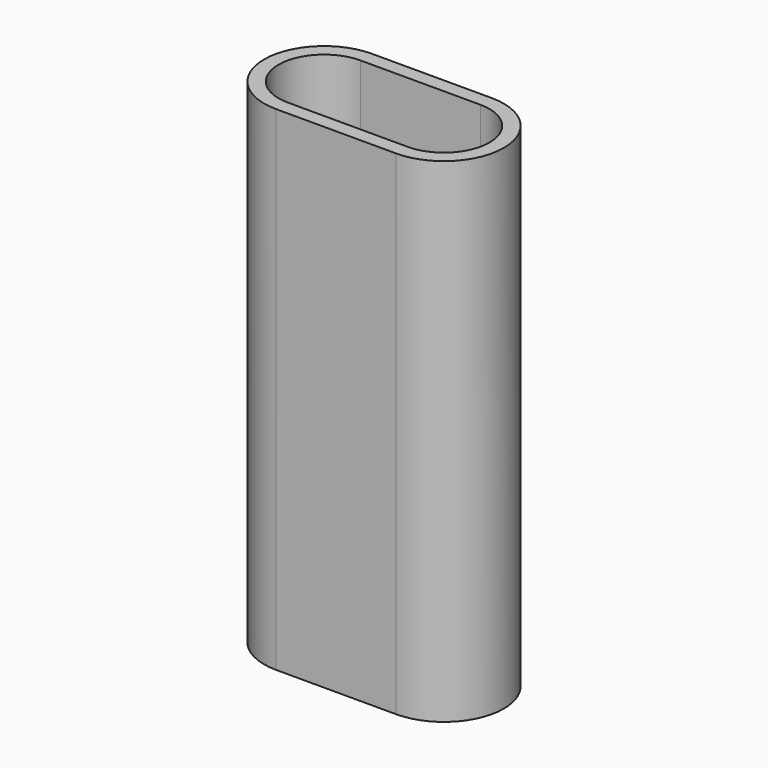
from build123d import *

# Parameters (mm, degrees)
F0_W     = 6.35
F0_H     = 1.5875
F0_H_2   = 9.525
F1_DEPTH = 52.324
F3_DEPTH = 49.276


with BuildPart() as f1:
    # F0 (on Top) → F1 (new body)
    with BuildSketch(Plane.XY):
        with Locations((3.175, -0.79375)):
            Rectangle(F0_W, F0_H)
        with BuildLine():
            Line((0, -1.5875), (0, 0))
            ThreePointArc((0, 0), (-6.35, -6.35), (0, -12.7))
            Line((0, -12.7), (0, -11.1125))
            ThreePointArc((0, -11.1125), (-4.7625, -6.35), (0, -1.5875))
        make_face()
        with Locations((9.525, -0.79375)):
            Rectangle(F0_W, F0_H)
        with Locations((3.175, -11.90625)):
            Rectangle(F0_W, F0_H)
        with BuildLine():
            ThreePointArc((12.7, -12.7), (19.05, -6.35), (12.7, 0))
            Line((12.7, 0), (12.7, -1.5875))
            ThreePointArc((12.7, -1.5875), (17.4625, -6.35), (12.7, -11.1125))
            Line((12.7, -11.1125), (12.7, -12.7))
        make_face()
        with Locations((9.525, -11.90625)):
            Rectangle(F0_W, F0_H)
        with Locations((9.525, -6.35)):
            Rectangle(F0_W, F0_H_2)
        with Locations((3.175, -6.35)):
            Rectangle(F0_W, F0_H_2)
        with BuildLine():
            Line((0, -11.1125), (0, -1.5875))
            ThreePointArc((0, -1.5875), (-4.7625, -6.35), (0, -11.1125))
        make_face()
        with BuildLine():
            ThreePointArc((12.7, -11.1125), (17.4625, -6.35), (12.7, -1.5875))
            Line((12.7, -1.5875), (12.7, -11.1125))
        make_face()
    extrude(amount=F1_DEPTH)

    # F2 (on face) → F3 (cut)
    with BuildSketch(Plane.XY.offset(52.324)):
        with BuildLine():
            Line((12.7, -1.524), (0, -1.524))
            ThreePointArc((0, -1.524), (-4.826, -6.35), (0, -11.176))
            Line((0, -11.176), (12.7, -11.176))
            ThreePointArc((12.7, -11.176), (17.526, -6.35), (12.7, -1.524))
        make_face()
    extrude(amount=-F3_DEPTH, mode=Mode.SUBTRACT)


solid = f1.part
